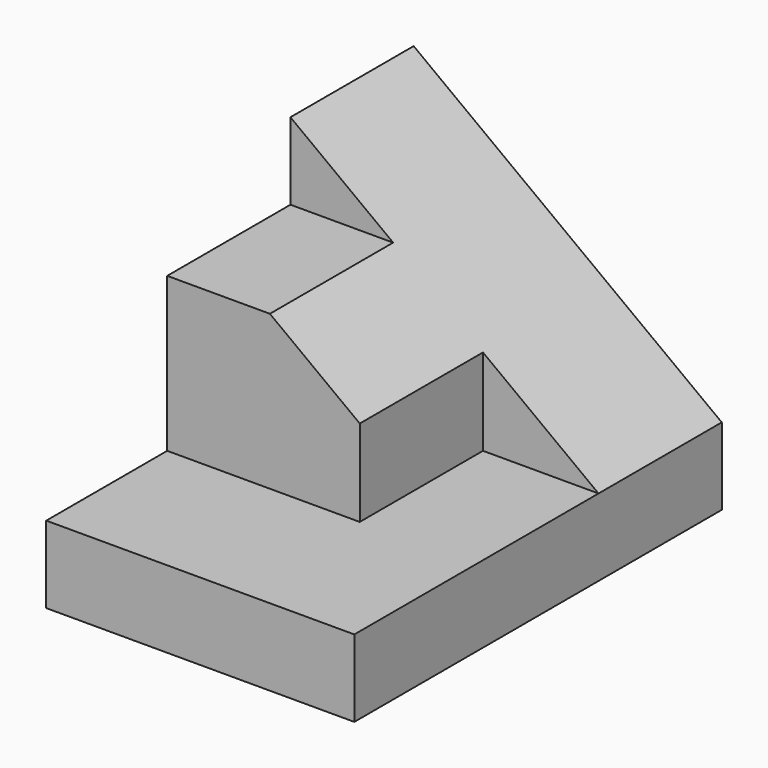
from build123d import *

# Parameters (mm, degrees)
F1_DEPTH = 25.4
F2_W     = 25.4
F2_H     = 37.8646999598
F3_DEPTH = 6.35
F5_DEPTH = 12.7
F7_DEPTH = 12.7


with BuildPart() as f1:
    # F0 (on Front) → F1 (new body)
    with BuildSketch(Plane.XZ):
        Polygon((-35.7808704906, 19.05), (-35.7808704906, 0), (-10.3808704906, 0), align=None)
    extrude(amount=F1_DEPTH)

    # F2 (on face) → F3 (join)
    with BuildSketch(Plane(origin=(0, 0, 0), x_dir=(1, 0, 0), z_dir=(0, 0, -1))):
        with Locations((-23.0808704906, 18.9323499799)):
            Rectangle(F2_W, F2_H)
    extrude(amount=F3_DEPTH)

    # F4 (on face) → F5 (cut)
    with BuildSketch(Plane.XZ.offset(25.4)):
        Polygon((-10.3808704906, 0), (-19.9058704906, 7.14375), (-19.9058704906, 0), align=None)
    extrude(amount=-F5_DEPTH, mode=Mode.SUBTRACT)

    # F6 (on face) → F7 (cut)
    with BuildSketch(Plane.XZ.offset(25.4)):
        Polygon((-35.7808704906, 19.05), (-35.7808704906, 12.7), (-27.3142038239, 12.7), align=None)
    extrude(amount=-F7_DEPTH, mode=Mode.SUBTRACT)


solid = f1.part
